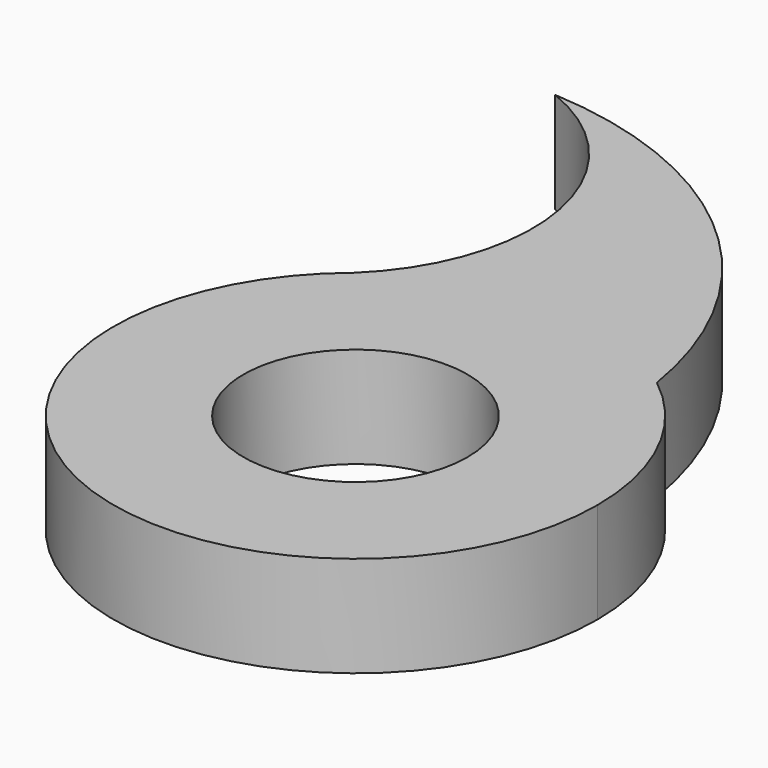
from build123d import *

# Parameters (mm, degrees)
F2_DEPTH = 10
F0_R     = 11.115
F3_DEPTH = 12.5


with BuildPart() as f2:
    # F1 (on Top) → F2 (new body)
    with BuildSketch(Plane.XY):
        with BuildLine():
            ThreePointArc((-15.105416, 18.650104), (-0.219685, 23.998995), (14.76147, 18.923504))
            ThreePointArc((14.76147, 18.923504), (2.357081, 41.724676), (-21.59713, 51.722581))
            ThreePointArc((-21.59713, 51.722581), (-9.295213, 36.963934), (-15.105416, 18.650104))
        make_face()
        with BuildLine():
            ThreePointArc((-15.105416, 18.650104), (-10.331263, -21.662525), (24, 0))
            ThreePointArc((24, 0), (21.56705, 10.529119), (14.76147, 18.923504))
            ThreePointArc((14.76147, 18.923504), (-0.219685, 23.998995), (-15.105416, 18.650104))
        make_face()
    extrude(amount=F2_DEPTH)

    # F0 (on Top) → F3 (cut, symmetric)
    with BuildSketch(Plane.XY):
        Circle(F0_R)
    extrude(amount=F3_DEPTH, both=True, mode=Mode.SUBTRACT)


solid = f2.part
